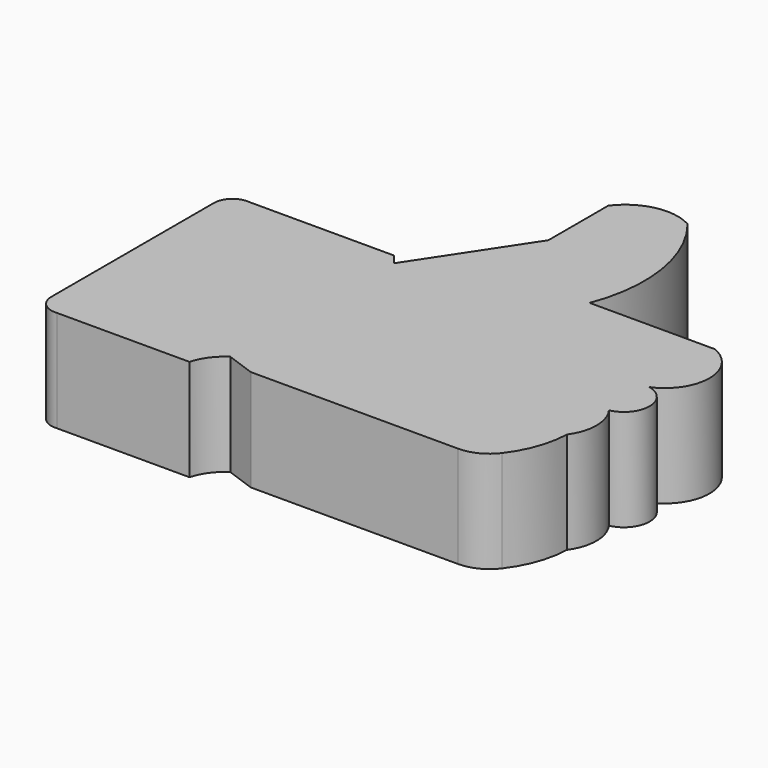
from build123d import *

# Parameters (mm, degrees)
F1_DEPTH = 8
F2_R     = 3.104738


with BuildPart() as f1:
    # F0 (on Top) → F1 (new body)
    with BuildSketch(Plane.XY):
        with BuildLine():
            ThreePointArc((9.888176, 22.327356), (8.755531, 21.959757), (8.271066, 20.871958))
            Line((8.271066, 20.871958), (8.271066, 4.862583))
            ThreePointArc((8.271066, 4.862583), (8.755531, 3.774784), (9.888176, 3.407185))
            Line((9.888176, 3.407185), (20.318527, 3.407185))
            ThreePointArc((20.318527, 3.407185), (20.890308, 4.601787), (21.854779, 5.509426))
            Line((21.854779, 5.509426), (24.118731, 4.700872))
            Line((24.118731, 4.700872), (41.745216, 4.700872))
            ThreePointArc((41.745216, 4.700872), (43.721863, 7.238361), (44.494297, 10.360752))
            ThreePointArc((44.494297, 10.360752), (45.161115, 12.422565), (44.494297, 14.484379))
            ThreePointArc((44.494297, 14.484379), (46.111809, 16.465337), (44.494297, 18.446295))
            ThreePointArc((44.494297, 18.446295), (46.652767, 21.680512), (44.494297, 24.914728))
            Line((44.494297, 24.914728), (34.629937, 24.914728))
            ThreePointArc((34.629937, 24.914728), (35.295258, 31.145926), (32.770261, 36.881331))
            ThreePointArc((32.770261, 36.881331), (29.89011, 37.31441), (27.433803, 35.749357))
            Line((27.433803, 35.749357), (27.433803, 29.84691))
            Line((27.433803, 29.84691), (21.935634, 21.5188))
            Line((21.935634, 21.5188), (21.288792, 22.327356))
            Line((21.288792, 22.327356), (9.888176, 22.327356))
        make_face()
    extrude(amount=F1_DEPTH)

    # F2
    f2_edges = [f1.edges().sort_by_distance(p)[0] for p in [
        (41.745216, 4.700872, 4),
    ]]
    fillet(f2_edges, radius=F2_R)


solid = f1.part
